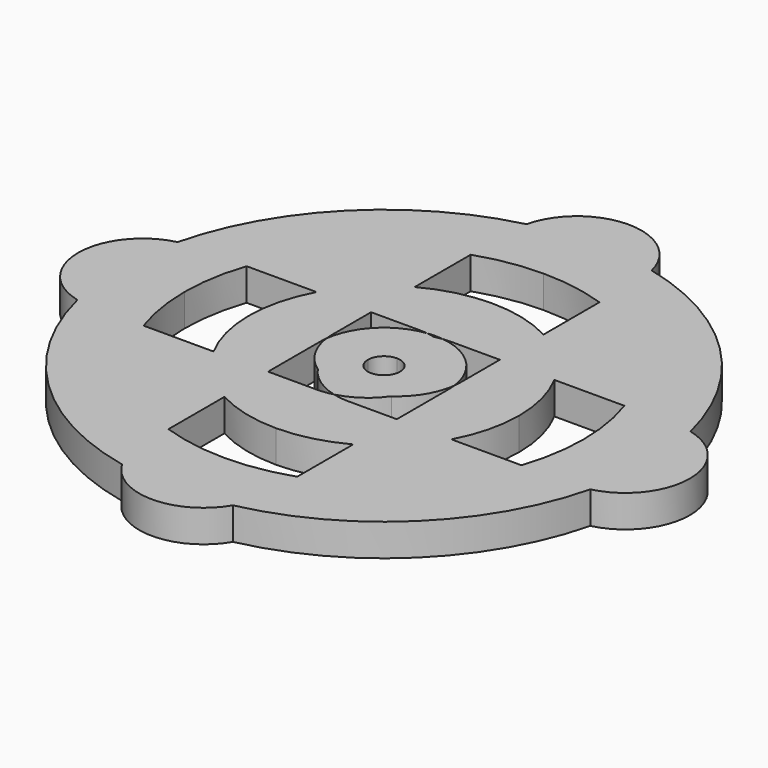
from build123d import *

# Parameters (mm, degrees)
F1_DEPTH = 5


with BuildPart() as f1:
    # F0 (on Top) → F1 (new body)
    with BuildSketch(Plane.XY):
        with BuildLine():
            ThreePointArc((-10, 29.3428015022), (-5.0681926478, 30.5828942921), (0, 31))
            ThreePointArc((0, 31), (5.0681926478, 30.5828942921), (10, 29.3428015022))
            Line((10, 29.3428015022), (10, 37.5))
            ThreePointArc((10, 37.5), (9.9309534662, 38.6730998478), (9.7247673494, 39.83))
            ThreePointArc((9.7247673494, 39.83), (0, 41), (-9.7247673494, 39.83))
            ThreePointArc((-9.7247673494, 39.83), (-9.9309534662, 38.6730998478), (-10, 37.5))
            Line((-10, 37.5), (-10, 29.3428015022))
        make_face()
        with BuildLine():
            ThreePointArc((10, -29.3428015022), (5.0681926478, -30.5828942921), (0, -31))
            ThreePointArc((0, -31), (-5.0681926478, -30.5828942921), (-10, -29.3428015022))
            Line((-10, -29.3428015022), (-10, -35))
            ThreePointArc((-10, -35), (-9.6462941162, -37.6360974611), (-8.6101980351, -40.0857142857))
            ThreePointArc((-8.6101980351, -40.0857142857), (0, -41), (8.6101980351, -40.0857142857))
            ThreePointArc((8.6101980351, -40.0857142857), (9.6462941162, -37.6360974611), (10, -35))
            Line((10, -35), (10, -29.3428015022))
        make_face()
        with BuildLine():
            ThreePointArc((29.3428015022, 10), (30.5828942921, 5.0681926478), (31, 0))
            ThreePointArc((31, 0), (30.5828942921, -5.0681926478), (29.3428015022, -10))
            Line((29.3428015022, -10), (37.5, -10))
            ThreePointArc((37.5, -10), (38.6730998478, -9.9309534662), (39.83, -9.7247673494))
            ThreePointArc((39.83, -9.7247673494), (40.7064491205, -4.8974483152), (41, 0))
            ThreePointArc((41, 0), (40.7064491205, 4.8974483152), (39.83, 9.7247673494))
            ThreePointArc((39.83, 9.7247673494), (38.6730998478, 9.9309534662), (37.5, 10))
            Line((37.5, 10), (29.3428015022, 10))
        make_face()
        with BuildLine():
            Line((10, 37.5), (10, 29.3428015022))
            ThreePointArc((10, 29.3428015022), (21.9203102168, 21.9203102168), (29.3428015022, 10))
            Line((29.3428015022, 10), (37.5, 10))
            ThreePointArc((37.5, 10), (38.6730998478, 9.9309534662), (39.83, 9.7247673494))
            ThreePointArc((39.83, 9.7247673494), (28.9913780286, 28.9913780286), (9.7247673494, 39.83))
            ThreePointArc((9.7247673494, 39.83), (9.9309534662, 38.6730998478), (10, 37.5))
        make_face()
        with BuildLine():
            ThreePointArc((-29.3428015022, 10), (-21.9203102168, 21.9203102168), (-10, 29.3428015022))
            Line((-10, 29.3428015022), (-10, 37.5))
            ThreePointArc((-10, 37.5), (-9.9309534662, 38.6730998478), (-9.7247673494, 39.83))
            ThreePointArc((-9.7247673494, 39.83), (-28.9913780286, 28.9913780286), (-39.83, 9.7247673494))
            ThreePointArc((-39.83, 9.7247673494), (-38.6730998478, 9.9309534662), (-37.5, 10))
            Line((-37.5, 10), (-29.3428015022, 10))
        make_face()
        with BuildLine():
            Line((-10, -35), (-10, -29.3428015022))
            ThreePointArc((-10, -29.3428015022), (-21.9203102168, -21.9203102168), (-29.3428015022, -10))
            Line((-29.3428015022, -10), (-37.5, -10))
            ThreePointArc((-37.5, -10), (-38.6730998478, -9.9309534662), (-39.83, -9.7247673494))
            ThreePointArc((-39.83, -9.7247673494), (-28.5842608989, -29.3928567659), (-8.6101980351, -40.0857142857))
            ThreePointArc((-8.6101980351, -40.0857142857), (-9.6462941162, -37.6360974611), (-10, -35))
        make_face()
        with BuildLine():
            ThreePointArc((29.3428015022, -10), (21.9203102168, -21.9203102168), (10, -29.3428015022))
            Line((10, -29.3428015022), (10, -35))
            ThreePointArc((10, -35), (9.6462941162, -37.6360974611), (8.6101980351, -40.0857142857))
            ThreePointArc((8.6101980351, -40.0857142857), (28.5842608989, -29.3928567659), (39.83, -9.7247673494))
            ThreePointArc((39.83, -9.7247673494), (38.6730998478, -9.9309534662), (37.5, -10))
            Line((37.5, -10), (29.3428015022, -10))
        make_face()
        with BuildLine():
            ThreePointArc((-29.3428015022, -10), (-30.5828942921, -5.0681926478), (-31, 0))
            ThreePointArc((-31, 0), (-30.5828942921, 5.0681926478), (-29.3428015022, 10))
            Line((-29.3428015022, 10), (-37.5, 10))
            ThreePointArc((-37.5, 10), (-38.6730998478, 9.9309534662), (-39.83, 9.7247673494))
            ThreePointArc((-39.83, 9.7247673494), (-41, 0), (-39.83, -9.7247673494))
            ThreePointArc((-39.83, -9.7247673494), (-38.6730998478, -9.9309534662), (-37.5, -10))
            Line((-37.5, -10), (-29.3428015022, -10))
        make_face()
        with BuildLine():
            ThreePointArc((-9.7247673494, 39.83), (0, 41), (9.7247673494, 39.83))
            ThreePointArc((9.7247673494, 39.83), (0, 47.5), (-9.7247673494, 39.83))
        make_face()
        with BuildLine():
            ThreePointArc((8.6101980351, -40.0857142857), (0, -41), (-8.6101980351, -40.0857142857))
            ThreePointArc((-8.6101980351, -40.0857142857), (0, -45), (8.6101980351, -40.0857142857))
        make_face()
        with BuildLine():
            ThreePointArc((39.83, -9.7247673494), (47.5, 0), (39.83, 9.7247673494))
            ThreePointArc((39.83, 9.7247673494), (40.7064491205, 4.8974483152), (41, 0))
            ThreePointArc((41, 0), (40.7064491205, -4.8974483152), (39.83, -9.7247673494))
        make_face()
        with BuildLine():
            ThreePointArc((-39.83, -9.7247673494), (-41, 0), (-39.83, 9.7247673494))
            ThreePointArc((-39.83, 9.7247673494), (-47.5, 0), (-39.83, -9.7247673494))
        make_face()
        with BuildLine():
            ThreePointArc((18.4661853126, -10), (14.8492424049, -14.8492424049), (10, -18.4661853126))
            Line((10, -18.4661853126), (10, -29.3428015022))
            ThreePointArc((10, -29.3428015022), (21.9203102168, -21.9203102168), (29.3428015022, -10))
            Line((29.3428015022, -10), (18.4661853126, -10))
        make_face()
        with BuildLine():
            Line((10, 29.3428015022), (10, 18.4661853126))
            ThreePointArc((10, 18.4661853126), (14.8492424049, 14.8492424049), (18.4661853126, 10))
            Line((18.4661853126, 10), (29.3428015022, 10))
            ThreePointArc((29.3428015022, 10), (21.9203102168, 21.9203102168), (10, 29.3428015022))
        make_face()
        with BuildLine():
            ThreePointArc((-18.4661853126, 10), (-14.8492424049, 14.8492424049), (-10, 18.4661853126))
            Line((-10, 18.4661853126), (-10, 29.3428015022))
            ThreePointArc((-10, 29.3428015022), (-21.9203102168, 21.9203102168), (-29.3428015022, 10))
            Line((-29.3428015022, 10), (-18.4661853126, 10))
        make_face()
        with BuildLine():
            Line((-10, -29.3428015022), (-10, -18.4661853126))
            ThreePointArc((-10, -18.4661853126), (-14.8492424049, -14.8492424049), (-18.4661853126, -10))
            Line((-18.4661853126, -10), (-29.3428015022, -10))
            ThreePointArc((-29.3428015022, -10), (-21.9203102168, -21.9203102168), (-10, -29.3428015022))
        make_face()
        with BuildLine():
            Line((18.4661853126, -10), (10, -10))
            Line((10, -10), (10, -18.4661853126))
            ThreePointArc((10, -18.4661853126), (14.8492424049, -14.8492424049), (18.4661853126, -10))
        make_face()
        with BuildLine():
            ThreePointArc((-18.4661853126, -10), (-14.8492424049, -14.8492424049), (-10, -18.4661853126))
            Line((-10, -18.4661853126), (-10, -10))
            Line((-10, -10), (-18.4661853126, -10))
        make_face()
        with BuildLine():
            Line((0, -21), (0, -9.6824583655))
            ThreePointArc((0, -9.6824583655), (-1.2399570752, -9.9202969627), (-2.5, -10))
            Line((-2.5, -10), (-10, -10))
            Line((-10, -10), (-10, -18.4661853126))
            ThreePointArc((-10, -18.4661853126), (-5.1580087454, -20.356692899), (0, -21))
        make_face()
        with BuildLine():
            ThreePointArc((2.5, -10), (1.2399570752, -9.9202969627), (0, -9.6824583655))
            Line((0, -9.6824583655), (0, -21))
            ThreePointArc((0, -21), (5.1580087454, -20.356692899), (10, -18.4661853126))
            Line((10, -18.4661853126), (10, -10))
            Line((10, -10), (2.5, -10))
        make_face()
        with BuildLine():
            ThreePointArc((18.4661853126, 10), (14.8492424049, 14.8492424049), (10, 18.4661853126))
            Line((10, 18.4661853126), (10, 10))
            Line((10, 10), (18.4661853126, 10))
        make_face()
        with BuildLine():
            ThreePointArc((9.9215674165, 1.25), (9.9803725924, 0.6262291254), (10, 0))
            Line((10, 0), (21, 0))
            ThreePointArc((21, 0), (20.356692899, 5.1580087454), (18.4661853126, 10))
            Line((18.4661853126, 10), (10, 10))
            Line((10, 10), (10, 2.5))
            ThreePointArc((10, 2.5), (9.9803725924, 1.8737708746), (9.9215674165, 1.25))
        make_face()
        with BuildLine():
            Line((21, 0), (10, 0))
            Line((10, 0), (10, -10))
            Line((10, -10), (18.4661853126, -10))
            ThreePointArc((18.4661853126, -10), (20.356692899, -5.1580087454), (21, 0))
        make_face()
        with BuildLine():
            Line((-10, 10), (-10, 18.4661853126))
            ThreePointArc((-10, 18.4661853126), (-14.8492424049, 14.8492424049), (-18.4661853126, 10))
            Line((-18.4661853126, 10), (-10, 10))
        make_face()
        with BuildLine():
            ThreePointArc((-1.25, 9.9215674165), (-0.6262291254, 9.9803725924), (0, 10))
            Line((0, 10), (0, 21))
            ThreePointArc((0, 21), (-5.1580087454, 20.356692899), (-10, 18.4661853126))
            Line((-10, 18.4661853126), (-10, 10))
            Line((-10, 10), (-2.5, 10))
            ThreePointArc((-2.5, 10), (-1.8737708746, 9.9803725924), (-1.25, 9.9215674165))
        make_face()
        with BuildLine():
            Line((0, 21), (0, 10))
            ThreePointArc((0, 10), (0.6262291254, 9.9803725924), (1.25, 9.9215674165))
            ThreePointArc((1.25, 9.9215674165), (1.8737708746, 9.9803725924), (2.5, 10))
            Line((2.5, 10), (10, 10))
            Line((10, 10), (10, 18.4661853126))
            ThreePointArc((10, 18.4661853126), (5.1580087454, 20.356692899), (0, 21))
        make_face()
        with BuildLine():
            ThreePointArc((-10, 0), (-9.9803725924, 0.6262291254), (-9.9215674165, 1.25))
            ThreePointArc((-9.9215674165, 1.25), (-9.9803725924, 1.8737708746), (-10, 2.5))
            Line((-10, 2.5), (-10, 10))
            Line((-10, 10), (-18.4661853126, 10))
            ThreePointArc((-18.4661853126, 10), (-20.356692899, 5.1580087454), (-21, 0))
            Line((-21, 0), (-10, 0))
        make_face()
        with BuildLine():
            Line((-10, -10), (-10, 0))
            Line((-10, 0), (-21, 0))
            ThreePointArc((-21, 0), (-20.356692899, -5.1580087454), (-18.4661853126, -10))
            Line((-18.4661853126, -10), (-10, -10))
        make_face()
    extrude(amount=F1_DEPTH)


with BuildPart() as f1b:
    # F0 (on Top) → F1, piece 2 (new body)
    with BuildSketch(Plane.XY):
        with BuildLine():
            ThreePointArc((-7.5, 0), (-5.4056941504, 6.123724357), (0, 9.6824583655))
            ThreePointArc((0, 9.6824583655), (-0.6211923237, 9.8219184336), (-1.25, 9.9215674165))
            ThreePointArc((-1.25, 9.9215674165), (-7.0710678119, 7.0710678119), (-9.9215674165, 1.25))
            ThreePointArc((-9.9215674165, 1.25), (-9.8219184336, 0.6211923237), (-9.6824583655, 0))
            Line((-9.6824583655, 0), (-7.5, 0))
        make_face()
        with BuildLine():
            ThreePointArc((0, 9.6824583655), (5.4056941504, 6.123724357), (7.5, 0))
            Line((7.5, 0), (9.6824583655, 0))
            ThreePointArc((9.6824583655, 0), (9.8219184336, 0.6211923237), (9.9215674165, 1.25))
            ThreePointArc((9.9215674165, 1.25), (7.0710678119, 7.0710678119), (1.25, 9.9215674165))
            ThreePointArc((1.25, 9.9215674165), (0.6211923237, 9.8219184336), (0, 9.6824583655))
        make_face()
        with BuildLine():
            Line((9.6824583655, 0), (7.5, 0))
            ThreePointArc((7.5, 0), (7.0419351951, -2.9919011903), (5.7097054535, -5.7097054535))
            ThreePointArc((5.7097054535, -5.7097054535), (8.2085236705, -3.2114043063), (9.6824583655, 0))
        make_face()
        with BuildLine():
            Line((7.5, 0), (2.5, 0))
            ThreePointArc((2.5, 0), (1.767766953, -1.767766953), (0, -2.5))
            Line((0, -2.5), (0, -7.5))
            ThreePointArc((0, -7.5), (2.9919011903, -7.0419351951), (5.7097054535, -5.7097054535))
            ThreePointArc((5.7097054535, -5.7097054535), (7.0419351951, -2.9919011903), (7.5, 0))
        make_face()
        with BuildLine():
            Line((0, -7.5), (0, -2.5))
            ThreePointArc((0, -2.5), (-1.767766953, -1.767766953), (-2.5, 0))
            Line((-2.5, 0), (-7.5, 0))
            ThreePointArc((-7.5, 0), (-7.0419351951, -2.9919011903), (-5.7097054535, -5.7097054535))
            ThreePointArc((-5.7097054535, -5.7097054535), (-2.9919011903, -7.0419351951), (0, -7.5))
        make_face()
        with BuildLine():
            ThreePointArc((-5.7097054535, -5.7097054535), (-7.0419351951, -2.9919011903), (-7.5, 0))
            Line((-7.5, 0), (-9.6824583655, 0))
            ThreePointArc((-9.6824583655, 0), (-8.2085236705, -3.2114043063), (-5.7097054535, -5.7097054535))
        make_face()
        with BuildLine():
            Line((0, -9.6824583655), (0, -7.5))
            ThreePointArc((0, -7.5), (-2.9919011903, -7.0419351951), (-5.7097054535, -5.7097054535))
            ThreePointArc((-5.7097054535, -5.7097054535), (-3.2114043063, -8.2085236705), (0, -9.6824583655))
        make_face()
        with BuildLine():
            ThreePointArc((5.7097054535, -5.7097054535), (2.9919011903, -7.0419351951), (0, -7.5))
            Line((0, -7.5), (0, -9.6824583655))
            ThreePointArc((0, -9.6824583655), (3.2114043063, -8.2085236705), (5.7097054535, -5.7097054535))
        make_face()
        with BuildLine():
            ThreePointArc((0, 2.5), (1.767766953, 1.767766953), (2.5, 0))
            Line((2.5, 0), (7.5, 0))
            ThreePointArc((7.5, 0), (5.4056941504, 6.123724357), (0, 9.6824583655))
            Line((0, 9.6824583655), (0, 2.5))
        make_face()
        with BuildLine():
            ThreePointArc((-2.5, 0), (-1.767766953, 1.767766953), (0, 2.5))
            Line((0, 2.5), (0, 9.6824583655))
            ThreePointArc((0, 9.6824583655), (-5.4056941504, 6.123724357), (-7.5, 0))
            Line((-7.5, 0), (-2.5, 0))
        make_face()
    extrude(amount=F1_DEPTH)


solid = Compound([f1.part, f1b.part])
